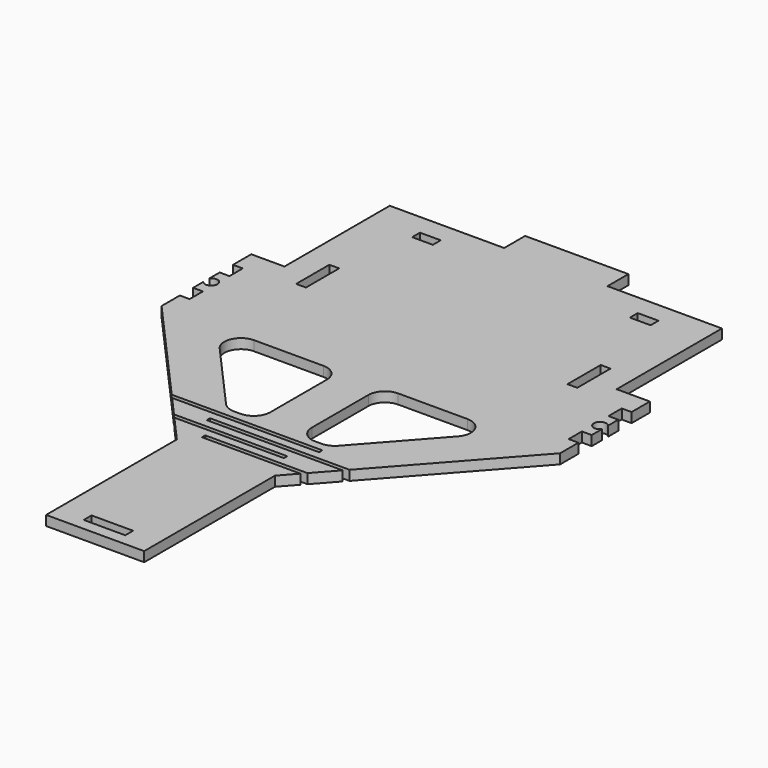
from build123d import *

# Parameters (mm, degrees)
F1_DEPTH = 3
F3_D     = 3.7973
F4_W     = 3
F4_H     = 5.08
F4_W_2   = 35
F4_H_2   = 8
F4_W_3   = 6.35
F4_H_3   = 3
F4_H_4   = 12.7
F4_W_4   = 12.7
F5_DEPTH = 3.001
F6_R     = 5.08


with BuildPart() as f1:
    # F0 (on Top) → F1 (new body)
    with BuildSketch(Plane.XY):
        Polygon((50.8, 41.275), (-50.8, 41.275), (-50.8, -6.985), (-60.96, -6.985), (-60.96, -41.275), (-30.4179767442, -75.565), (15.6730507807, -75.565), (15.6730507807, -76.835), (-29.2867906977, -76.835), (-23.6308604651, -83.185), (11.0115253904, -83.185), (11.0115253904, -84.455), (-22.4996744186, -84.455), (-15, -92.875), (-15, -142.875), (15, -142.875), (15, -92.875), (19.1061162791, -88.265), (-11.0115253904, -88.265), (-11.0115253904, -86.995), (20.2373023256, -86.995), (25.8932325581, -80.645), (-15.6730507807, -80.645), (-15.6730507807, -79.375), (27.0244186047, -79.375), (60.96, -41.275), (60.96, -6.985), (50.8, -6.985), align=None)
        Polygon((-15.6730507807, -73.025), (-43.9527019435, -41.275), (-6.35, -41.275), (-6.35, -73.025), align=None, mode=Mode.SUBTRACT)
        Polygon((6.35, -41.275), (43.9527019435, -41.275), (15.6730507807, -73.025), (6.35, -73.025), align=None, mode=Mode.SUBTRACT)
    extrude(amount=F1_DEPTH)

    # F3 (through all)
    with Locations(Plane.XY.offset(3)):
        with Locations((-59.46, -24.13), (59.46, -24.13)):
            Hole(F3_D / 2)

    # F4 (on face) → F5 (cut, through all)
    with BuildSketch(Plane.XY.offset(3)):
        with Locations((-59.46, -31.75)):
            Rectangle(F4_W, F4_H)
        with Locations((-59.46, -16.51)):
            Rectangle(F4_W, F4_H)
        with Locations((59.46, -16.51)):
            Rectangle(F4_W, F4_H)
        with Locations((59.46, -31.75)):
            Rectangle(F4_W, F4_H)
        with Locations((-33.3, 37.275)):
            Rectangle(F4_W_2, F4_H_2)
        with Locations((33.3, 37.275)):
            Rectangle(F4_W_2, F4_H_2)
        with Locations((-33.3, 25.425)):
            Rectangle(F4_W_3, F4_H_3)
        with Locations((33.3, 25.425)):
            Rectangle(F4_W_3, F4_H_3)
        with Locations((41.5, -5.925)):
            Rectangle(F4_W, F4_H_4)
        with Locations((-41.5, -5.925)):
            Rectangle(F4_W, F4_H_4)
        with Locations((0, -137.795)):
            Rectangle(F4_W_4, F4_H_3)
    extrude(amount=-F5_DEPTH, mode=Mode.SUBTRACT)

    # F6
    f6_edges = [f1.edges().sort_by_distance(p)[0] for p in [
        (-43.952702, -41.275, 1.5),
        (-6.35, -41.275, 1.5),
        (43.952702, -41.275, 1.5),
        (6.35, -41.275, 1.5),
        (15.673051, -73.025, 1.5),
        (-15.673051, -73.025, 1.5),
        (-6.35, -73.025, 1.5),
        (6.35, -73.025, 1.5),
    ]]
    fillet(f6_edges, radius=F6_R)


solid = f1.part
